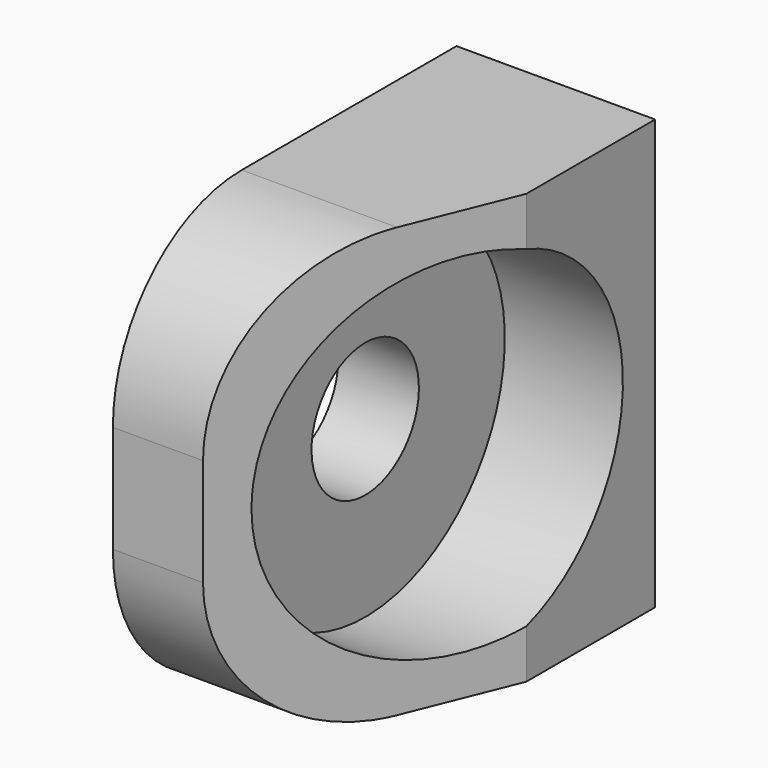
from build123d import *

# Parameters (mm, degrees)
PAD026_DEPTH            = 4
SKETCH054_R             = 3.25
POCKET017_DEPTH         = 3.5
SKETCH056_R             = 1.25
POCKET018_DEPTH         = 5
FILLET001_R             = 3
BODY040_PLACEMENT_ANGLE = 90


with BuildPart() as part:
    # Sketch052 → Pad026 (new body, symmetric)
    with BuildSketch(Plane.YZ.offset(-96)):
        Polygon((93, 26.9), (93.000001, 25.221294), (97.999998, 23.199999), (101.000002, 23.2), (101, 26.9), align=None)
    extrude(amount=PAD026_DEPTH, both=True)

    # Sketch054 (on Face5 of Pad026) → Pocket017 (cut)
    with BuildSketch(Plane(origin=(0, 0, 21.9), x_dir=(0, -1, 0), z_dir=(0, 0, 1))):
        with Locations((-97, -96)):
            Circle(SKETCH054_R)
    extrude(amount=POCKET017_DEPTH, mode=Mode.SUBTRACT)

    # Sketch056 → Pocket018 (cut)
    with BuildSketch(Plane.XY.offset(22)):
        with Locations((-96, 97)):
            Circle(SKETCH056_R)
    extrude(amount=POCKET018_DEPTH, mode=Mode.SUBTRACT)

    # Fillet001
    fillet001_edges = [part.edges().sort_by_distance(p)[0] for p in [
        (-92, 93.000001, 26.060647),
        (-100, 93.000001, 26.060647),
    ]]
    fillet(fillet001_edges, radius=FILLET001_R)


with BuildPart() as part_1:
    # Body040 placement: moved
    add(part.part.moved(Location((-122, 0, 111))).rotate(Axis((-122, 0, 111), (0, -1, 0)), BODY040_PLACEMENT_ANGLE))


with BuildPart() as part_2:
    # Body046 placement: moved
    add(part_1.part.moved(Location((192, 0, 0))))


solid = part_2.part
